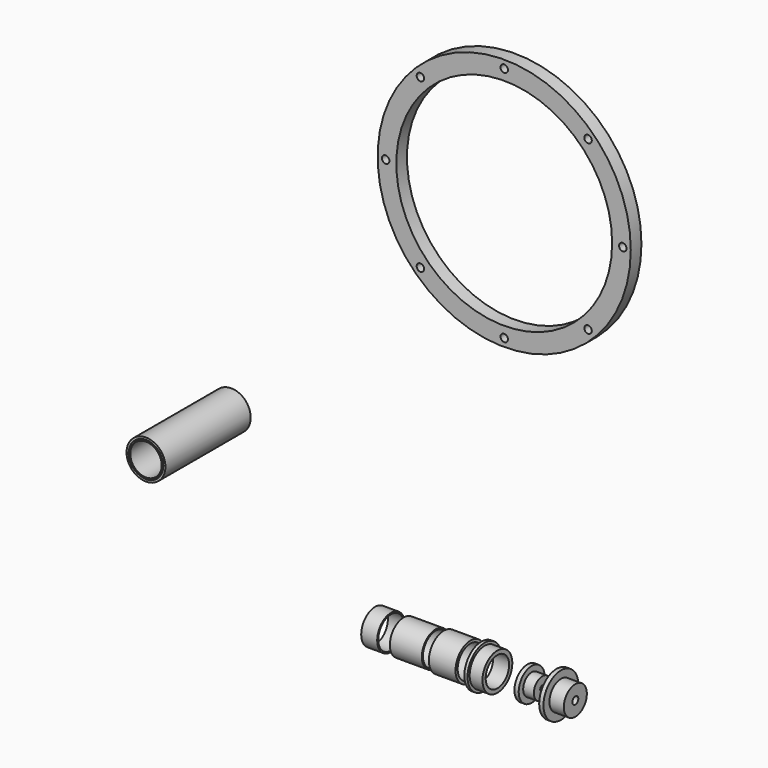
from build123d import *

# Parameters (mm, degrees)
F4_R     = 237.5
F4_R_2   = 7
F4_R_3   = 202.5
F5_DEPTH = 25
F6_R     = 36.5
F6_R_2   = 30.15
F6_R_3   = 29.5
F7_DEPTH = 200
F8_R     = 32.5
F8_R_2   = 30
F9_DEPTH = 25
F10_W    = 50
F10_H    = 5
F12_W    = 60
F12_H    = 2.5
F12_W_2  = 30


with BuildPart() as f1:
    # F0 (on Front) → F1 (revolve)
    with BuildSketch(Plane.XZ):
        Polygon((-62.830582, 27.5), (-32.830582, 27.5), (-32.830582, 35), (-56.830582, 35), (-56.830582, 40), (-62.830582, 40), align=None)
    revolve(axis=Axis((-5.295847, 0, 0), (1, 0, 0)))


with BuildPart() as f3:
    # F2 (on Front) → F3 (revolve)
    with BuildSketch(Plane.XZ):
        Polygon((31.57755, 30.5), (23.57755, 30.5), (23.57755, 5), (51.57755, 5), (51.57755, 20), (31.57755, 20), align=None)
        Polygon((78.452319, 41), (78.452319, 7), (113.452319, 7), (113.452319, 27), (86.452319, 27), (86.452319, 41), align=None)
    revolve(axis=Axis((-5.295847, 0, 0), (1, 0, 0)))


with BuildPart() as f5:
    # F4 (on Front) → F5 (new body)
    with BuildSketch(Plane.XZ):
        with Locations((0, 794.592142)):
            Circle(F4_R)
        with Locations((-157.331259, 637.260883)):
            Circle(F4_R_2, mode=Mode.SUBTRACT)
        with Locations((0, 572.092142)):
            Circle(F4_R_2, mode=Mode.SUBTRACT)
        with Locations((157.331259, 637.260883)):
            Circle(F4_R_2, mode=Mode.SUBTRACT)
        with Locations((-222.5, 794.592142)):
            Circle(F4_R_2, mode=Mode.SUBTRACT)
        with Locations((-157.331259, 951.923401)):
            Circle(F4_R_2, mode=Mode.SUBTRACT)
        with Locations((0, 794.592142)):
            Circle(F4_R_3, mode=Mode.SUBTRACT)
        with Locations((222.5, 794.592142)):
            Circle(F4_R_2, mode=Mode.SUBTRACT)
        with Locations((0, 1017.092142)):
            Circle(F4_R_2, mode=Mode.SUBTRACT)
        with Locations((157.331259, 951.923401)):
            Circle(F4_R_2, mode=Mode.SUBTRACT)
    extrude(amount=F5_DEPTH)


with BuildPart() as f7:
    # F6 (on Front) → F7 (new body)
    with BuildSketch(Plane.XZ):
        with Locations((-532.257676, 269.338459)):
            Circle(F6_R)
        with Locations((-532.257676, 269.338459)):
            Circle(F6_R_2, mode=Mode.SUBTRACT)
        with Locations((-532.257676, 269.338459)):
            Circle(F6_R_2)
        with Locations((-532.257676, 269.338459)):
            Circle(F6_R_3, mode=Mode.SUBTRACT)
    extrude(amount=F7_DEPTH)

    # F8 (on face) → F9 (cut)
    with BuildSketch(Plane.XZ.offset(200)):
        with Locations((-532.257676, 269.338459)):
            Circle(F8_R)
        with Locations((-532.257676, 269.338459)):
            Circle(F8_R_2, mode=Mode.SUBTRACT)
    extrude(amount=-F9_DEPTH, mode=Mode.SUBTRACT)


with BuildPart() as f11:
    # F10 (on Front) → F11 (revolve)
    with BuildSketch(Plane.XZ):
        with Locations((-108.375067, 32.5)):
            Rectangle(F10_W, F10_H)
    revolve(axis=Axis((-5.295847, 0, 0), (1, 0, 0)))


with BuildPart() as f13:
    # F12 (on Front) → F13 (revolve)
    with BuildSketch(Plane.XZ):
        with Locations((-178.584515, 31.25)):
            Rectangle(F12_W, F12_H)
        with Locations((-247.355179, 31.25)):
            Rectangle(F12_W_2, F12_H)
    revolve(axis=Axis((-5.295847, 0, 0), (1, 0, 0)))


solid = Compound([f1.part, f3.part, f5.part, f7.part, f11.part, f13.part])
